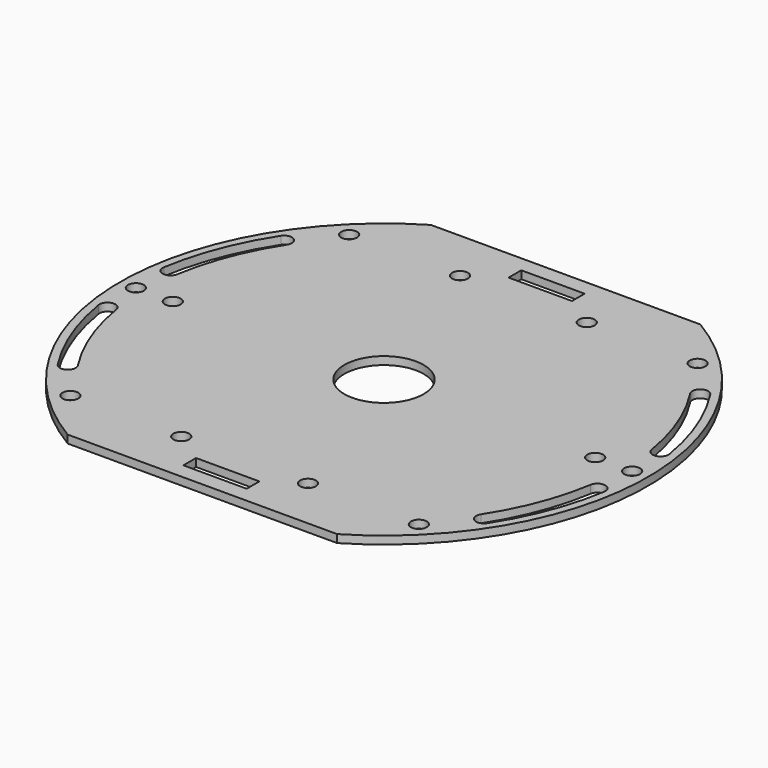
from build123d import *

# Parameters (mm, degrees)
F0_R     = 1.5
F0_W     = 12
F0_H     = 3
F0_R_2   = 7.5
F1_DEPTH = 1.5


with BuildPart() as f1:
    # F0 (on Top) → F1 (new body)
    with BuildSketch(Plane.XY):
        with BuildLine():
            Line((25.514702, 43), (-25.514702, 43))
            ThreePointArc((-25.514702, 43), (-50, 0), (-25.514702, -43))
            Line((-25.514702, -43), (25.514702, -43))
            ThreePointArc((25.514702, -43), (50, 0), (25.514702, 43))
        make_face()
        with Locations((-33, -33)):
            Circle(F0_R, mode=Mode.SUBTRACT)
        with Locations((-12, -33)):
            Circle(F0_R, mode=Mode.SUBTRACT)
        with BuildLine():
            ThreePointArc((-40.677445, -26.412033), (-45.256088, -17.439509), (-47.882498, -7.714688))
            ThreePointArc((-47.882498, -7.714688), (-46.640194, -5.995187), (-44.920694, -7.237491))
            ThreePointArc((-44.920694, -7.237491), (-42.456743, -16.360776), (-38.161314, -24.778299))
            ThreePointArc((-38.161314, -24.778299), (-38.602512, -26.853231), (-40.677445, -26.412033))
        make_face(mode=Mode.SUBTRACT)
        with Locations((0, -38.5)):
            Rectangle(F0_W, F0_H, mode=Mode.SUBTRACT)
        with Locations((12, -33)):
            Circle(F0_R, mode=Mode.SUBTRACT)
        with Locations((33, -33)):
            Circle(F0_R, mode=Mode.SUBTRACT)
        with BuildLine():
            ThreePointArc((40.677445, -26.412033), (38.602512, -26.853231), (38.161314, -24.778299))
            ThreePointArc((38.161314, -24.778299), (42.456743, -16.360776), (44.920694, -7.237491))
            ThreePointArc((44.920694, -7.237491), (46.640194, -5.995187), (47.882498, -7.714688))
            ThreePointArc((47.882498, -7.714688), (45.256088, -17.439509), (40.677445, -26.412033))
        make_face(mode=Mode.SUBTRACT)
        with Locations((-47, 0)):
            Circle(F0_R, mode=Mode.SUBTRACT)
        with Locations((-40, 0)):
            Circle(F0_R, mode=Mode.SUBTRACT)
        with BuildLine():
            ThreePointArc((-44.920694, 7.237491), (-46.640194, 5.995187), (-47.882498, 7.714688))
            ThreePointArc((-47.882498, 7.714688), (-45.256088, 17.439509), (-40.677445, 26.412033))
            ThreePointArc((-40.677445, 26.412033), (-38.602512, 26.853231), (-38.161314, 24.778299))
            ThreePointArc((-38.161314, 24.778299), (-42.456743, 16.360776), (-44.920694, 7.237491))
        make_face(mode=Mode.SUBTRACT)
        with Locations((-33, 33)):
            Circle(F0_R, mode=Mode.SUBTRACT)
        with Locations((-12, 33)):
            Circle(F0_R, mode=Mode.SUBTRACT)
        Circle(F0_R_2, mode=Mode.SUBTRACT)
        with Locations((40, 0)):
            Circle(F0_R, mode=Mode.SUBTRACT)
        with Locations((47, 0)):
            Circle(F0_R, mode=Mode.SUBTRACT)
        with BuildLine():
            ThreePointArc((40.677445, 26.412033), (45.256088, 17.439509), (47.882498, 7.714688))
            ThreePointArc((47.882498, 7.714688), (46.640194, 5.995187), (44.920694, 7.237491))
            ThreePointArc((44.920694, 7.237491), (42.456743, 16.360776), (38.161314, 24.778299))
            ThreePointArc((38.161314, 24.778299), (38.602512, 26.853231), (40.677445, 26.412033))
        make_face(mode=Mode.SUBTRACT)
        with Locations((12, 33)):
            Circle(F0_R, mode=Mode.SUBTRACT)
        with Locations((0, 38.5)):
            Rectangle(F0_W, F0_H, mode=Mode.SUBTRACT)
        with Locations((33, 33)):
            Circle(F0_R, mode=Mode.SUBTRACT)
    extrude(amount=F1_DEPTH)


solid = f1.part
